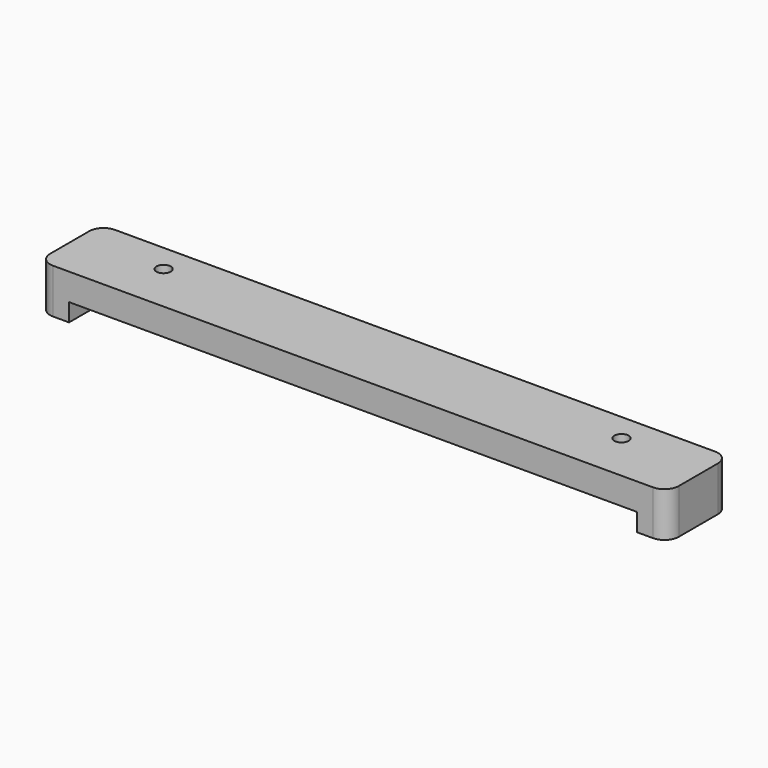
from build123d import *

# Parameters (mm, degrees)
F0_W     = 223.13392
F0_H     = 14.8336
F1_DEPTH = 9.525
F2_R     = 2.54
F3_DEPTH = 9.526
F4_W     = 10.795
F4_H     = 14.8336
F5_DEPTH = 6.35
F7_DEPTH = 12.7
F8_R     = 5.08


with BuildPart() as f1:
    # F0 (on Top) → F1 (new body)
    with BuildSketch(Plane.XY):
        with Locations((0, 7.62)):
            Rectangle(F0_W, F0_H)
    extrude(amount=F1_DEPTH)

    # F2 (on face) → F3 (cut, through all)
    with BuildSketch(Plane.XY.offset(9.525)):
        with Locations((-81.28, 5.08)):
            Circle(F2_R)
        with Locations((81.28, 5.08)):
            Circle(F2_R)
    extrude(amount=-F3_DEPTH, mode=Mode.SUBTRACT)

    # F4 (on face) → F5 (join)
    with BuildSketch(Plane(origin=(0, 0, 0), x_dir=(1, 0, 0), z_dir=(0, 0, -1))):
        with Locations((-106.16946, -7.62)):
            Rectangle(F4_W, F4_H)
        with Locations((106.16946, -7.62)):
            Rectangle(F4_W, F4_H)
    extrude(amount=F5_DEPTH)

    # F6 (on face) → F7 (join)
    with BuildSketch(Plane.XZ.offset(-0.2032)):
        Polygon((100.77196, -6.35), (111.56696, -6.35), (111.56696, 9.525), (-111.56696, 9.525), (-111.56696, -6.35), (-100.77196, -6.35), (-100.77196, 0), (100.77196, 0), align=None)
    extrude(amount=F7_DEPTH)

    # F8
    f8_edges = [f1.edges().sort_by_distance(p)[0] for p in [
        (111.56696, -12.4968, 1.5875),
        (111.56696, 15.0368, 1.5875),
        (-111.56696, -12.4968, 1.5875),
        (-111.56696, 15.0368, 1.5875),
    ]]
    fillet(f8_edges, radius=F8_R)


solid = f1.part
